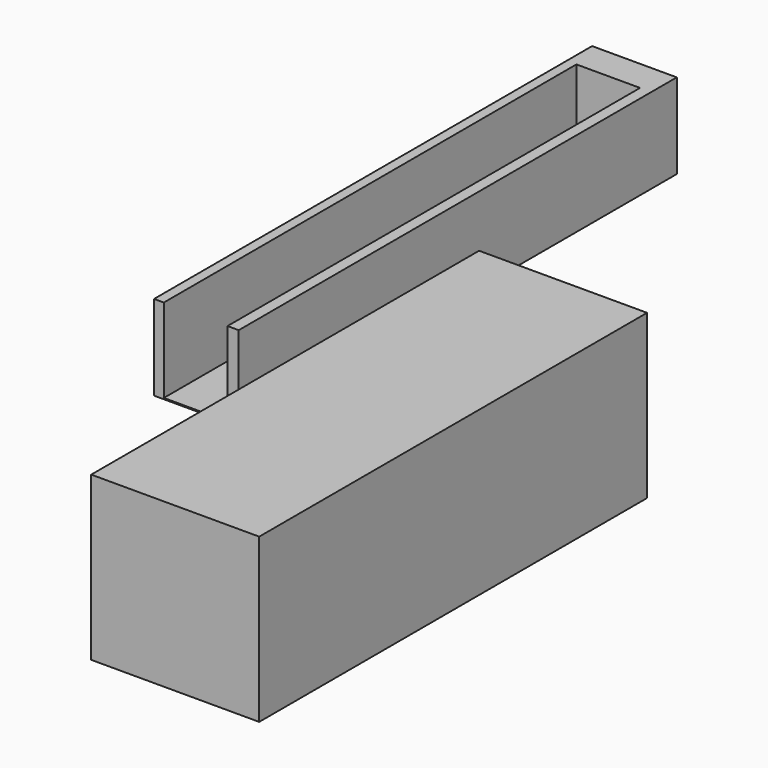
from build123d import *

# Parameters (mm, degrees)
F0_W     = 12.800679
F0_H     = 12.879181
F1_DEPTH = 82.804
F2_W     = 9.626262
F2_H     = 77.986487
F3_DEPTH = 12.7
F4_W     = 73.312849
F4_H     = 24.665538
F5_DEPTH = 25.4


with BuildPart() as f1:
    # F0 (on Front) → F1 (new body)
    with BuildSketch(Plane.XZ):
        with Locations((-42.297929, 33.074682)):
            Rectangle(F0_W, F0_H)
    extrude(amount=F1_DEPTH)

    # F2 (on face) → F3 (cut)
    with BuildSketch(Plane.XY.offset(39.514273)):
        with Locations((-42.407595, -43.810757)):
            Rectangle(F2_W, F2_H)
    extrude(amount=-F3_DEPTH, mode=Mode.SUBTRACT)


with BuildPart() as f5:
    # F4 (on Right) → F5 (new body)
    with BuildSketch(Plane.YZ):
        with Locations((-118.894904, 49.201647)):
            Rectangle(F4_W, F4_H)
    extrude(amount=F5_DEPTH)


solid = Compound([f1.part, f5.part])
